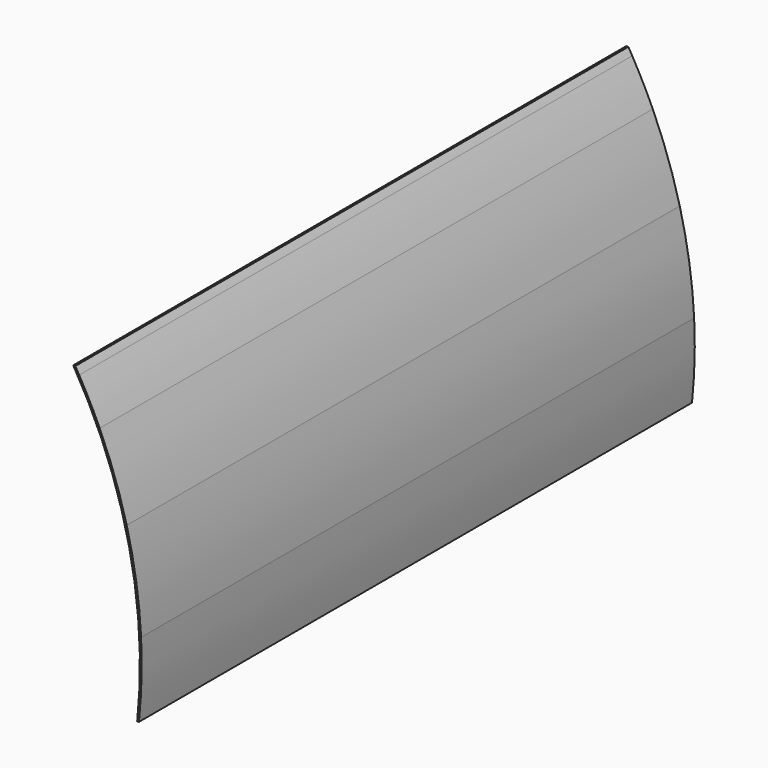
from build123d import *

# Parameters (mm, degrees)
F1_DEPTH = 1166


with BuildPart() as f1:
    # F0 (on Front) → F1 (new body)
    with BuildSketch(Plane.XZ):
        with BuildLine():
            Line((0, -224.070491), (2.998085, -223.988282))
            ThreePointArc((2.998085, -223.988282), (7.341765, -160.639447), (6.626175, -97.145901))
            ThreePointArc((6.626175, -97.145901), (-1.511396, -17.282142), (-17.645525, 61.357098))
            ThreePointArc((-17.645525, 61.357098), (-37.637259, 126.95455), (-63.196602, 190.589566))
            ThreePointArc((-63.196602, 190.589566), (-79.702826, 224.859308), (-97.826118, 258.302049))
            ThreePointArc((-97.826118, 258.302049), (-101.081641, 263.928084), (-104.382961, 269.527369))
            Line((-104.382961, 269.527369), (-107.902268, 269.482162))
            ThreePointArc((-107.902268, 269.482162), (-13.788708, 31.486291), (0, -224.070491))
        make_face()
    extrude(amount=F1_DEPTH)


solid = f1.part
